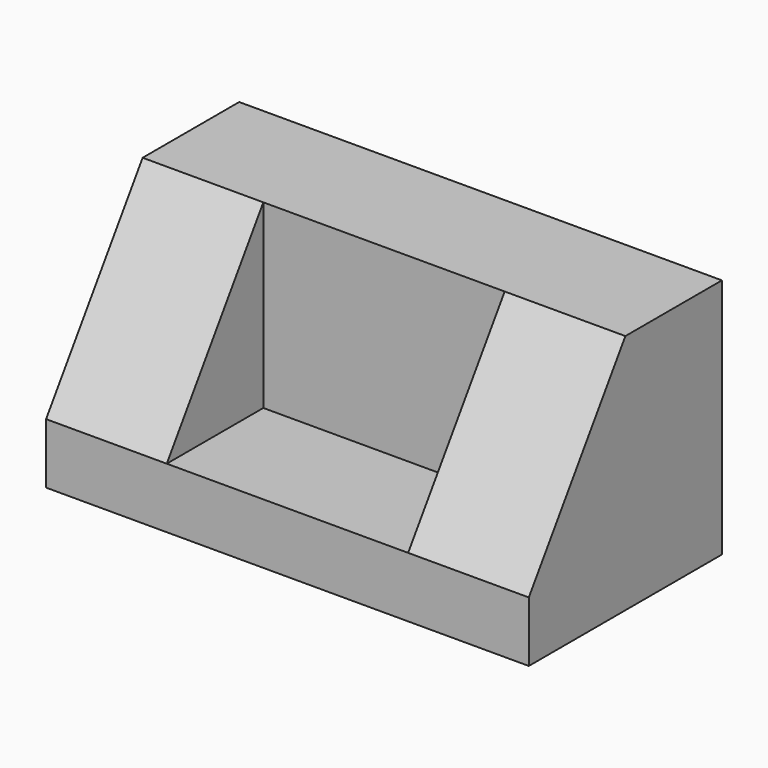
from build123d import *

# Parameters (mm, degrees)
F0_W     = 203.2
F0_H     = 25.4
F1_DEPTH = 101.6
F2_W     = 203.2
F2_H     = 50.8
F3_DEPTH = 76.2
F4_W     = 50.8
F4_H     = 76.2
F5_DEPTH = 50.8
F6_SIZE2 = 76.2
F6_SIZE  = 50.8
F7_W     = 50.8
F7_H     = 76.2
F8_DEPTH = 50.8
F9_SIZE2 = 76.2
F9_SIZE  = 50.8


with BuildPart() as f1:
    # F0 (on Front) → F1 (new body)
    with BuildSketch(Plane.XZ):
        with Locations((101.6, 12.7)):
            Rectangle(F0_W, F0_H)
    extrude(amount=F1_DEPTH)

    # F2 (on face) → F3 (join)
    with BuildSketch(Plane.XY.offset(25.4)):
        with Locations((101.6, -25.4)):
            Rectangle(F2_W, F2_H)
    extrude(amount=F3_DEPTH)

    # F4 (on face) → F5 (join)
    with BuildSketch(Plane.XZ.offset(50.8)):
        with Locations((25.4, 63.5)):
            Rectangle(F4_W, F4_H)
    extrude(amount=F5_DEPTH)

    # F6
    f6_edges = [f1.edges().sort_by_distance(p)[0] for p in [
        (25.4, -101.6, 101.6),
    ]]
    f6_side = f1.faces().sort_by_distance((86.36, -35.56, 101.6))[0]
    chamfer(f6_edges, length=F6_SIZE, length2=F6_SIZE2, reference=f6_side)

    # F7 (on face) → F8 (join)
    with BuildSketch(Plane.XZ.offset(50.8)):
        with Locations((177.8, 63.5)):
            Rectangle(F7_W, F7_H)
    extrude(amount=F8_DEPTH)

    # F9
    f9_edges = [f1.edges().sort_by_distance(p)[0] for p in [
        (177.8, -101.6, 101.6),
    ]]
    f9_side = f1.faces().sort_by_distance((116.84, -35.56, 101.6))[0]
    chamfer(f9_edges, length=F9_SIZE, length2=F9_SIZE2, reference=f9_side)


solid = f1.part
